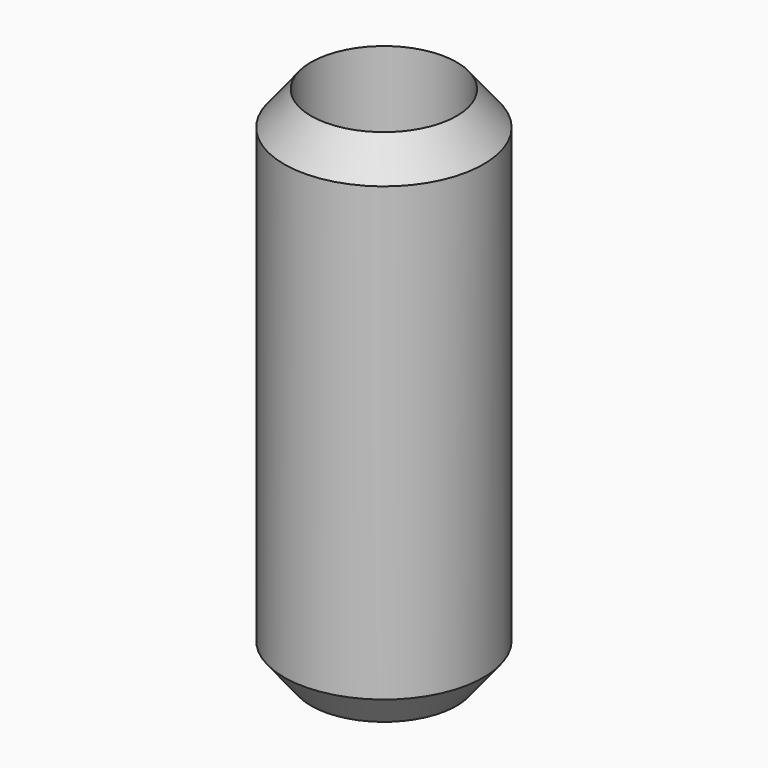
from build123d import *

# Parameters (mm, degrees)
F2_R     = 10.576597
F3_DEPTH = 71.12


with BuildPart() as f1:
    # F0 (on Front) → F1 (revolve)
    with BuildSketch(Plane.XZ):
        Polygon((0, 0), (0, 37.703611), (-10.576597, 37.703611), (-14.493856, 32.807037), (-14.493856, 0), (-14.493856, -32.807037), (-10.576597, -37.703611), (0, -37.703611), align=None)
    revolve(axis=Axis((0, 0, -18.851805), (0, 0, -1)))

    # F2 (on face) → F3 (cut)
    with BuildSketch(Plane.XY.offset(37.703611)):
        Circle(F2_R)
    extrude(amount=-F3_DEPTH, mode=Mode.SUBTRACT)


solid = f1.part
